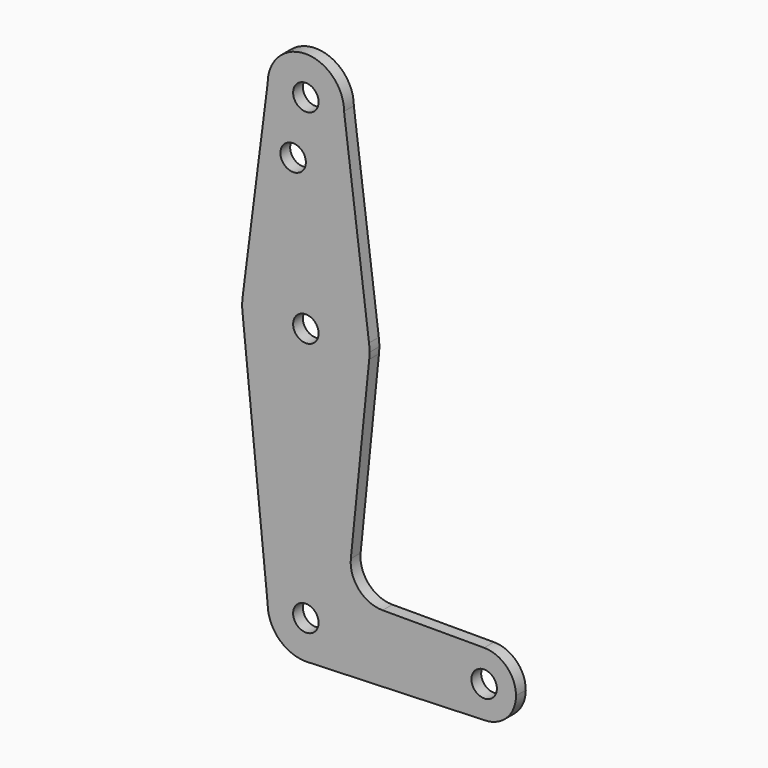
from build123d import *

# Parameters (mm, degrees)
F0_R     = 3.175
F1_DEPTH = 3.048


with BuildPart() as f1:
    # F0 (on Front) → F1 (new body)
    with BuildSketch(Plane.XZ):
        with BuildLine():
            ThreePointArc((-9.525, 114.3), (0, 104.775), (9.525, 114.3))
            ThreePointArc((9.525, 114.3), (0, 123.825), (-9.525, 114.3))
        make_face()
        with Locations((0, 114.3)):
            Circle(F0_R, mode=Mode.SUBTRACT)
        with BuildLine():
            Line((15.747457, 65.508289), (9.525, 114.3))
            ThreePointArc((9.525, 114.3), (0, 104.775), (-9.525, 114.3))
            Line((-9.525, 114.3), (-15.747457, 65.508289))
            ThreePointArc((-15.747457, 65.508289), (0, 79.375), (15.747457, 65.508289))
        make_face()
        with Locations((-3.175, 100.0252)):
            Circle(F0_R, mode=Mode.SUBTRACT)
        with BuildLine():
            ThreePointArc((15.875, 63.5), (15.843082, 64.506168), (15.747457, 65.508289))
            ThreePointArc((15.747457, 65.508289), (0, 79.375), (-15.747457, 65.508289))
            ThreePointArc((-15.747457, 65.508289), (-15.875, 63.5), (-15.747457, 61.491711))
            ThreePointArc((-15.747457, 61.491711), (0.205667, 47.626332), (15.794203, 61.90038))
            ThreePointArc((15.794203, 61.90038), (15.854788, 62.699171), (15.875, 63.5))
        make_face()
        with Locations((0, 63.5)):
            Circle(F0_R, mode=Mode.SUBTRACT)
        with BuildLine():
            ThreePointArc((15.794203, 61.90038), (0.205667, 47.626332), (-15.747457, 61.491711))
            Line((-15.747457, 61.491711), (-9.525, 0))
            ThreePointArc((-9.525, 0), (0, 9.525), (9.525, 0))
            ThreePointArc((9.525, 0), (6.97129, -6.490511), (0.67949, -9.500732))
            Line((0.67949, -9.500732), (44.45, -7.9375))
            ThreePointArc((44.45, -7.9375), (36.5125, 0), (44.45, 7.9375))
            Line((44.45, 7.9375), (19.124959, 7.9375))
            ThreePointArc((19.124959, 7.9375), (13.226887, 10.556806), (11.215222, 16.688789))
            Line((11.215222, 16.688789), (15.794203, 61.90038))
        make_face()
        with BuildLine():
            ThreePointArc((9.525, 0), (0, 9.525), (-9.525, 0))
            ThreePointArc((-9.525, 0), (-6.735192, -6.735192), (0, -9.525))
            Line((0, -9.525), (0.67949, -9.500732))
            ThreePointArc((0.67949, -9.500732), (6.97129, -6.490511), (9.525, 0))
        make_face()
        Circle(F0_R, mode=Mode.SUBTRACT)
        with BuildLine():
            Line((0.67949, -9.500732), (0, -9.525))
            ThreePointArc((0, -9.525), (0.339962, -9.518931), (0.67949, -9.500732))
        make_face()
        with BuildLine():
            ThreePointArc((52.3875, 0), (50.06266, 5.61266), (44.45, 7.9375))
            ThreePointArc((44.45, 7.9375), (36.5125, 0), (44.45, -7.9375))
            ThreePointArc((44.45, -7.9375), (50.06266, -5.61266), (52.3875, 0))
        make_face()
        with Locations((44.45, 0)):
            Circle(F0_R, mode=Mode.SUBTRACT)
    extrude(amount=-F1_DEPTH)


solid = f1.part
